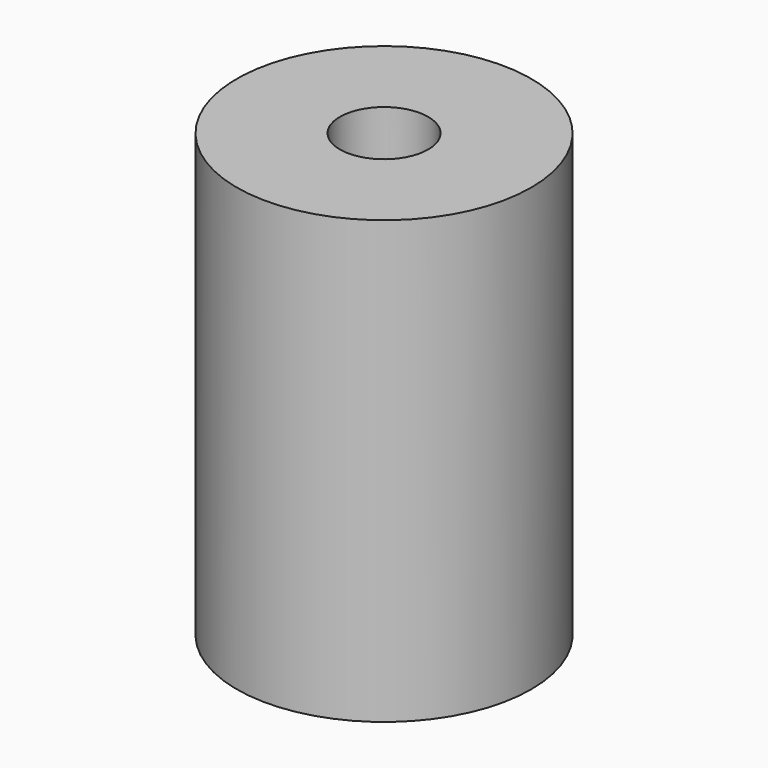
from build123d import *

# Parameters (mm, degrees)
F0_R     = 5
F0_R_2   = 1.5
F1_DEPTH = 15
F2_DEPTH = 10


with BuildPart() as f1:
    # F0 (on Top) → F1 (new body)
    with BuildSketch(Plane.XY):
        Circle(F0_R)
        Circle(F0_R_2, mode=Mode.SUBTRACT)
        Circle(F0_R_2)
    extrude(amount=-F1_DEPTH)

    # F0 (on Top) → F2 (cut)
    with BuildSketch(Plane.XY):
        Circle(F0_R_2)
    extrude(amount=-F2_DEPTH, mode=Mode.SUBTRACT)


solid = f1.part
